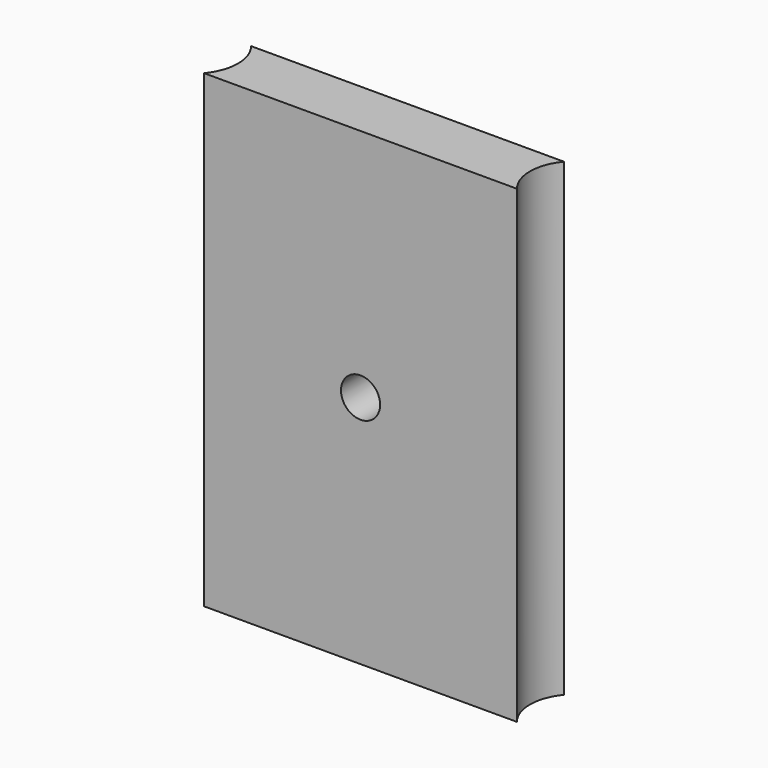
from build123d import *

# Parameters (mm, degrees)
F1_DEPTH = 76.2
F2_R     = 3.175
F3_DEPTH = 9.525


with BuildPart() as f1:
    # F0 (on Top) → F1 (new body)
    with BuildSketch(Plane.XY):
        with BuildLine():
            Line((-25.4, -4.7625), (25.4, -4.7625))
            ThreePointArc((25.4, -4.7625), (23.693841, 0), (25.4, 4.7625))
            Line((25.4, 4.7625), (-25.4, 4.7625))
            ThreePointArc((-25.4, 4.7625), (-23.693841, 0), (-25.4, -4.7625))
        make_face()
    extrude(amount=F1_DEPTH)

    # F2 (on face) → F3 (cut, through all)
    with BuildSketch(Plane(origin=(0, 4.7625, 0), x_dir=(-1, 0, 0), z_dir=(0, 1, 0))):
        with Locations((0, 38.1)):
            Circle(F2_R)
    extrude(amount=-F3_DEPTH, mode=Mode.SUBTRACT)


solid = f1.part
